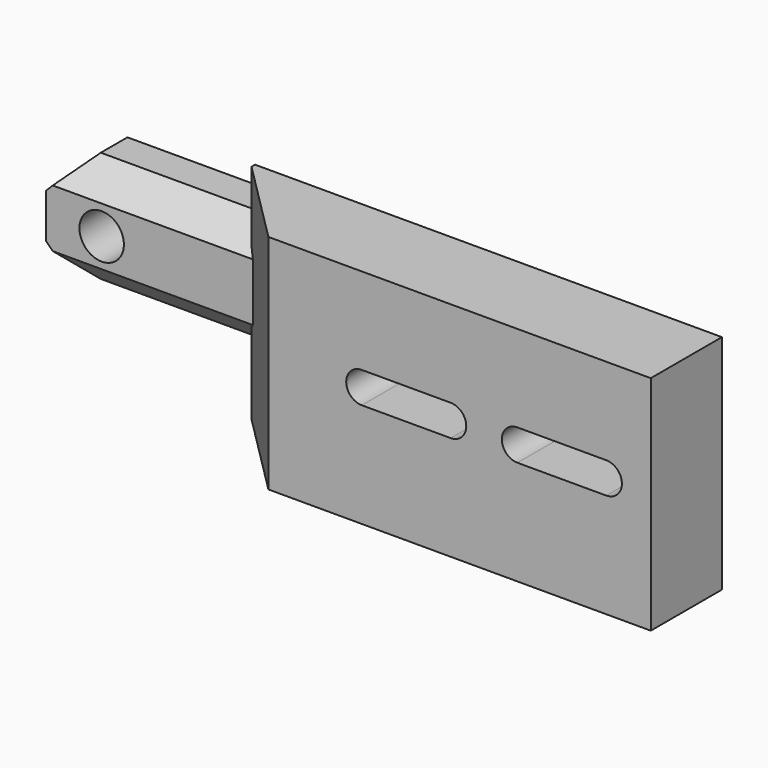
from build123d import *

# Parameters (mm, degrees)
BOX012_W               = 4
BOX012_H               = 10
BOX012_DEPTH           = 1.4
CYLINDER012_R          = 0.7
CYLINDER012_DEPTH      = 10
CYLINDER012_ROLL_ANGLE = 90
CYLINDER013_R          = 0.7
CYLINDER013_DEPTH      = 10
CYLINDER013_ROLL_ANGLE = 90
BOX011_W               = 21
BOX011_H               = 4
BOX011_DEPTH           = 10
CHAMFER003_SIZE        = 3.8
CYLINDER014_R          = 1
CYLINDER014_DEPTH      = 5
CYLINDER014_ROLL_ANGLE = 90
BOX010_W               = 15.5
BOX010_H               = 2.7
BOX010_DEPTH           = 5
CHAMFER001_SIZE        = 1.5
CHAMFER002_SIZE        = 1.2
CHAMFER004_SIZE        = 0.9


with BuildPart() as cube007:
    # Box012 → Box012 (new body)
    with BuildSketch(Plane(origin=(-7, -24.5, -39.3), x_dir=(1, 0, 0), z_dir=(0, 0, 1))):
        with Locations((2, 5)):
            Rectangle(BOX012_W, BOX012_H)
    extrude(amount=BOX012_DEPTH)


with BuildPart() as cylinder003:
    # Cylinder012 → Cylinder012 (new body)
    with BuildSketch(Plane.XY):
        Circle(CYLINDER012_R)
    extrude(amount=CYLINDER012_DEPTH)


with BuildPart() as cylinder003_1:
    # Cylinder012 roll: moved
    add(cylinder003.part.rotate(Axis((0, 0, 0), (1, 0, 0)), CYLINDER012_ROLL_ANGLE))


with BuildPart() as cylinder003_2:
    # Cylinder012 placement: moved
    add(cylinder003_1.part.moved(Location((-3, -14.5, -38.6))))


with BuildPart() as cylinder004:
    # Cylinder013 → Cylinder013 (new body)
    with BuildSketch(Plane.XY):
        Circle(CYLINDER013_R)
    extrude(amount=CYLINDER013_DEPTH)


with BuildPart() as cylinder004_1:
    # Cylinder013 roll: moved
    add(cylinder004.part.rotate(Axis((0, 0, 0), (1, 0, 0)), CYLINDER013_ROLL_ANGLE))


with BuildPart() as cylinder004_2:
    # Cylinder013 placement: moved
    add(cylinder004_1.part.moved(Location((-7, -14.5, -38.6))))


with BuildPart() as fusion007005:
    # Fusion007005 base: copy of Cylinder004
    add(cylinder004_2.part)

    # Fusion007005: union Cube007, Cylinder003
    add(cube007.part)
    add(cylinder003_2.part)


with BuildPart() as fusion007005_1:
    # Fusion007005 placement: moved
    add(fusion007005.part.moved(Location((7, 0, 0))))


with BuildPart() as fusion007006:
    # Fusion007006 base: copy of Cylinder004
    add(cylinder004_2.part)

    # Fusion007006: union Cube007, Cylinder003
    add(cube007.part)
    add(cylinder003_2.part)


with BuildPart() as chamfer003:
    # Box011 → Box011 (new body)
    with BuildSketch(Plane(origin=(-15, -21, -44), x_dir=(1, 0, 0), z_dir=(0, 0, 1))):
        with Locations((10.5, 2)):
            Rectangle(BOX011_W, BOX011_H)
    extrude(amount=BOX011_DEPTH)

    # Cut007: cut Fusion007006
    add(fusion007006.part, mode=Mode.SUBTRACT)

    # Cut008: cut Fusion007005
    add(fusion007005_1.part, mode=Mode.SUBTRACT)

    # Chamfer003
    chamfer003_edges = [chamfer003.edges().sort_by_distance(p)[0] for p in [
        (-15, -21, -39),
    ]]
    chamfer(chamfer003_edges, length=CHAMFER003_SIZE)


with BuildPart() as cylinder005:
    # Cylinder014 → Cylinder014 (new body)
    with BuildSketch(Plane.XY):
        Circle(CYLINDER014_R)
    extrude(amount=CYLINDER014_DEPTH)


with BuildPart() as cylinder005_1:
    # Cylinder014 roll: moved
    add(cylinder005.part.rotate(Axis((0, 0, 0), (1, 0, 0)), CYLINDER014_ROLL_ANGLE))


with BuildPart() as cylinder005_2:
    # Cylinder014 placement: moved
    add(cylinder005_1.part.moved(Location((-21.5, -13.5, -38.75))))


with BuildPart() as chamfer004:
    # Box010 → Box010 (new body)
    with BuildSketch(Plane(origin=(-24, -17.5, -41.25), x_dir=(1, 0, 0), z_dir=(0, 0, 1))):
        with Locations((7.75, 1.35)):
            Rectangle(BOX010_W, BOX010_H)
    extrude(amount=BOX010_DEPTH)

    # Cut009: cut Cylinder005
    add(cylinder005_2.part, mode=Mode.SUBTRACT)

    # Chamfer001
    chamfer001_edges = [chamfer004.edges().sort_by_distance(p)[0] for p in [
        (-24, -16.15, -36.25),
        (-24, -16.15, -41.25),
    ]]
    chamfer(chamfer001_edges, length=CHAMFER001_SIZE)

    # Chamfer002
    chamfer002_edges = [chamfer004.edges().sort_by_distance(p)[0] for p in [
        (-15.5, -17.5, -41.25),
        (-15.5, -17.5, -36.25),
    ]]
    chamfer(chamfer002_edges, length=CHAMFER002_SIZE)

    # Fusion007007: union Chamfer003
    add(chamfer003.part)

    # Chamfer004
    chamfer004_edges = [chamfer004.edges().sort_by_distance(p)[0] for p in [
        (-11.75, -17, -36.95),
        (-8.5, -16.65, -40.9),
    ]]
    chamfer(chamfer004_edges, length=CHAMFER004_SIZE)


solid = chamfer004.part
